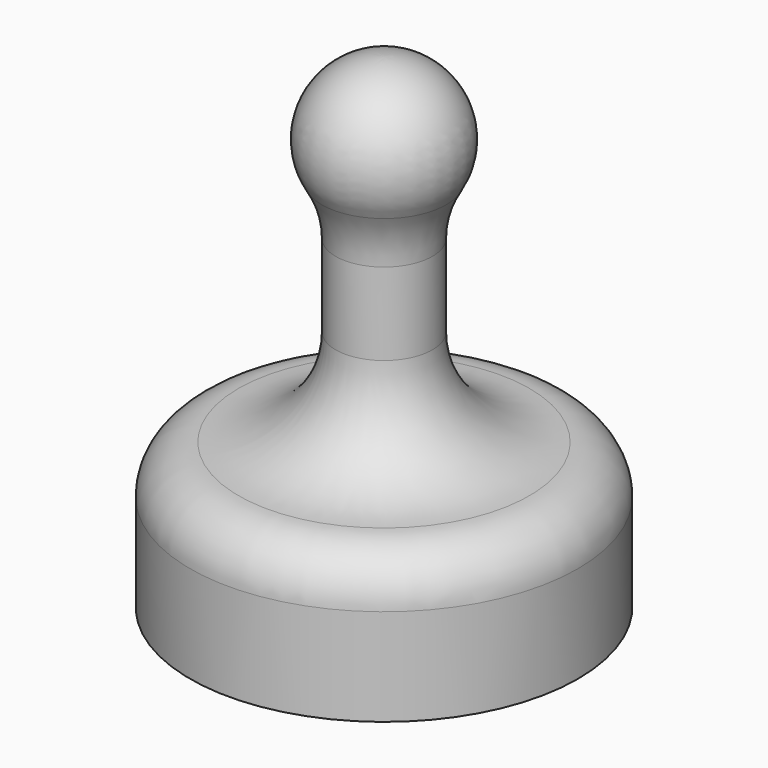
from build123d import *

# Parameters (mm, degrees)
F2_R     = 6.5
F3_DEPTH = 3.5


with BuildPart() as f1:
    # F0 (on Front) → F1 (revolve)
    with BuildSketch(Plane.XZ):
        with BuildLine():
            Line((-10, 0), (0, 0))
            Line((0, 0), (0, 25))
            ThreePointArc((0, 25), (-3.263878, 23.096511), (-3.214286, 19.318455))
            ThreePointArc((-3.214286, 19.318455), (-2.681879, 18.079367), (-2.5, 16.743061))
            Line((-2.5, 16.743061), (-2.5, 12.5))
            ThreePointArc((-2.5, 12.5), (-3.964466, 8.964466), (-7.5, 7.5))
            ThreePointArc((-7.5, 7.5), (-9.267767, 6.767767), (-10, 5))
            Line((-10, 5), (-10, 0))
        make_face()
    revolve(axis=Axis((0, 0, 12.5), (0, 0, 1)))

    # F2 (on face) → F3 (cut)
    with BuildSketch(Plane(origin=(0, 0, 0), x_dir=(1, 0, 0), z_dir=(0, 0, -1))):
        Circle(F2_R)
    extrude(amount=-F3_DEPTH, mode=Mode.SUBTRACT)


solid = f1.part
